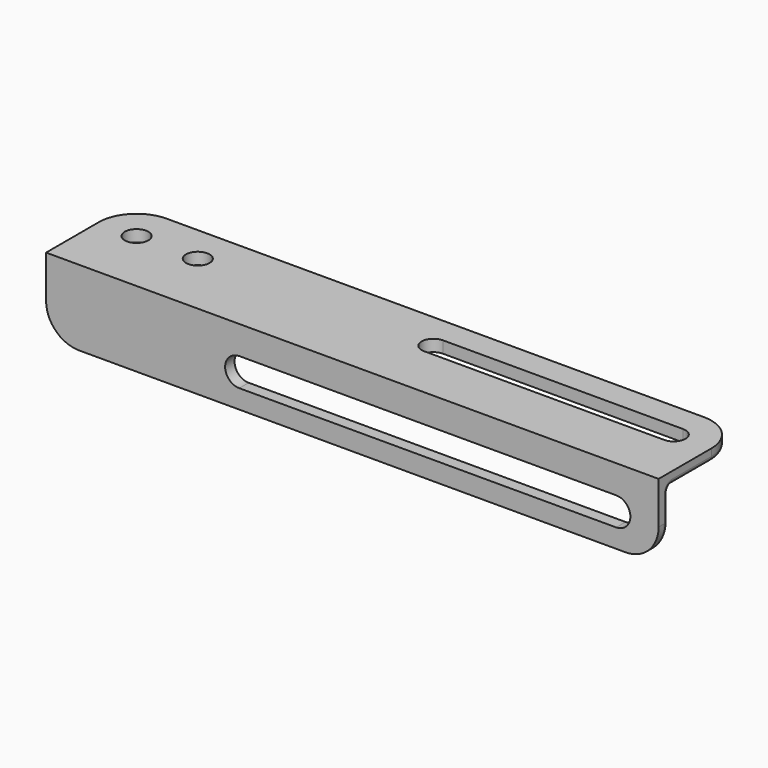
from build123d import *

# Parameters (mm, degrees)
F1_DEPTH = 5
F2_R     = 5
F3_DEPTH = 5
F4_W     = 260
F4_H     = 5
F5_DEPTH = 27
F6_R     = 14
F8_DEPTH = 5
F9_R     = 2


with BuildPart() as f1:
    # F0 (on Top) → F1 (new body)
    with BuildSketch(Plane.XY):
        with BuildLine():
            Line((-130, 0), (130, 0))
            Line((130, 0), (130, 28))
            ThreePointArc((130, 28), (125.313708, 39.313708), (114, 44))
            Line((114, 44), (-114, 44))
            ThreePointArc((-114, 44), (-125.313708, 39.313708), (-130, 28))
            Line((-130, 28), (-130, 0))
        make_face()
    extrude(amount=-F1_DEPTH)

    # F2 (on face) → F3 (cut)
    with BuildSketch(Plane.XY):
        with BuildLine():
            Line((12, 23), (114, 23))
            ThreePointArc((114, 23), (119, 28), (114, 33))
            Line((114, 33), (12, 33))
            ThreePointArc((12, 33), (7, 28), (12, 23))
        make_face()
        with Locations((-88, 28)):
            Circle(F2_R)
        with Locations((-114, 28)):
            Circle(F2_R)
    extrude(amount=-F3_DEPTH, mode=Mode.SUBTRACT)

    # F4 (on face) → F5 (join)
    with BuildSketch(Plane(origin=(0, 0, -5), x_dir=(1, 0, 0), z_dir=(0, 0, -1))):
        with Locations((0, -2.5)):
            Rectangle(F4_W, F4_H)
    extrude(amount=F5_DEPTH)

    # F6
    f6_edges = [f1.edges().sort_by_distance(p)[0] for p in [
        (130, 2.5, -32),
        (-130, 2.5, -32),
    ]]
    fillet(f6_edges, radius=F6_R)

    # F7 (on face) → F8 (cut)
    with BuildSketch(Plane.XZ):
        with BuildLine():
            ThreePointArc((112, -24), (118, -18), (112, -12))
            Line((112, -12), (-48, -12))
            ThreePointArc((-48, -12), (-54, -18), (-48, -24))
            Line((-48, -24), (112, -24))
        make_face()
    extrude(amount=-F8_DEPTH, mode=Mode.SUBTRACT)

    # F9
    f9_edges = [f1.edges().sort_by_distance(p)[0] for p in [
        (0, 5, -32),
        (0, 44, -5),
        (0, 5, -5),
    ]]
    fillet(f9_edges, radius=F9_R)


solid = f1.part
